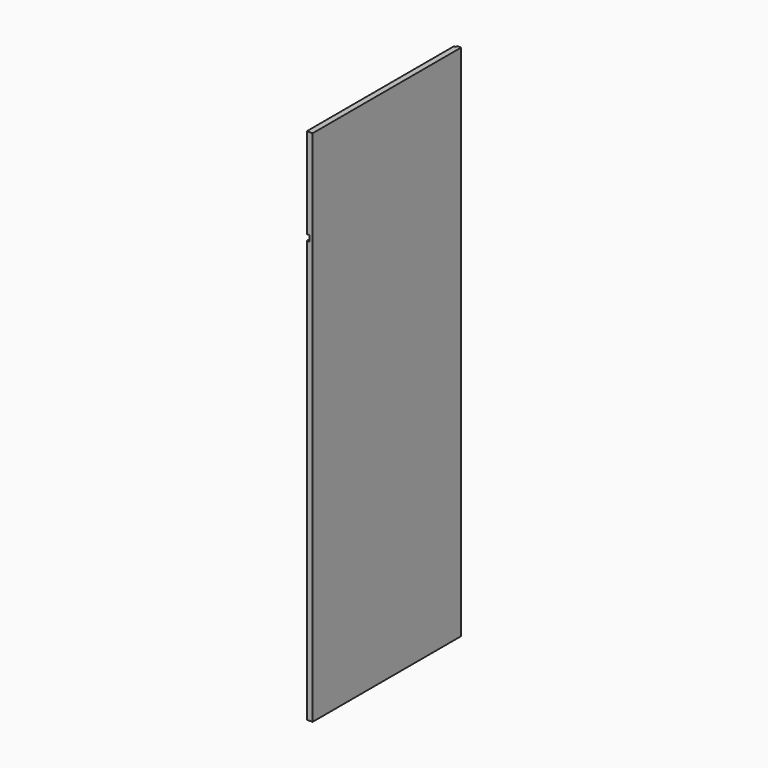
from build123d import *

# Parameters (mm, degrees)
F0_W     = 616
F0_H     = 1719
F1_DEPTH = 19
F2_W     = 6
F2_H     = 6
F3_DEPTH = 1719.001
F4_W     = 9
F4_H     = 19
F5_DEPTH = 616.001


with BuildPart() as f1:
    # F0 (on Right) → F1 (new body)
    with BuildSketch(Plane.YZ):
        with Locations((308, 859.5)):
            Rectangle(F0_W, F0_H)
    extrude(amount=-F1_DEPTH)

    # F2 (on Top) → F3 (cut, through all)
    with BuildSketch(Plane.XY):
        with Locations((-16, 613)):
            Rectangle(F2_W, F2_H)
    extrude(amount=F3_DEPTH, mode=Mode.SUBTRACT)

    # F4 (on Front) → F5 (cut, through all)
    with BuildSketch(Plane.XZ):
        with Locations((-14.5, 1408.5)):
            Rectangle(F4_W, F4_H)
    extrude(amount=-F5_DEPTH, mode=Mode.SUBTRACT)


solid = f1.part
